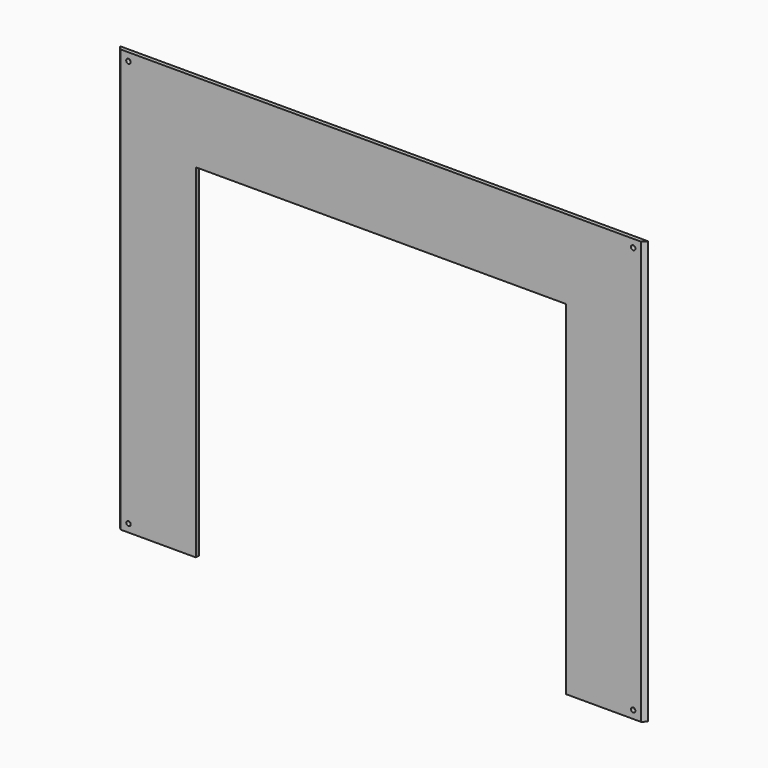
from build123d import *

# Parameters (mm, degrees)
F1_DEPTH = 60
F2_DEPTH = 320
F3_R     = 1.7
F4_DEPTH = 3


with BuildPart() as f1:
    # F0 (on Top) → F1 (new body)
    with BuildSketch(Plane.XY):
        Polygon((140, 1.5), (0, 1.5), (-140, 1.5), (-140, 0), (-140, -1.5), (0, -1.5), (140, -1.5), (140, 0), align=None)
    extrude(amount=-F1_DEPTH)

    # F0 (on Top) → F2 (join)
    with BuildSketch(Plane.XY):
        Polygon((-140, 0), (-140, 1.5), (-200, 1.5), (-197, -1.5), (-140, -1.5), align=None)
        Polygon((200, 1.5), (140, 1.5), (140, 0), (140, -1.5), (197, -1.5), align=None)
    extrude(amount=-F2_DEPTH)

    # F3 (on face) → F4 (cut)
    with BuildSketch(Plane.XZ.offset(1.5)):
        with Locations((191, -6)):
            Circle(F3_R)
        with Locations((191, -314)):
            Circle(F3_R)
        with Locations((-191, -314)):
            Circle(F3_R)
        with Locations((-191, -6)):
            Circle(F3_R)
    extrude(amount=-F4_DEPTH, mode=Mode.SUBTRACT)


solid = f1.part
